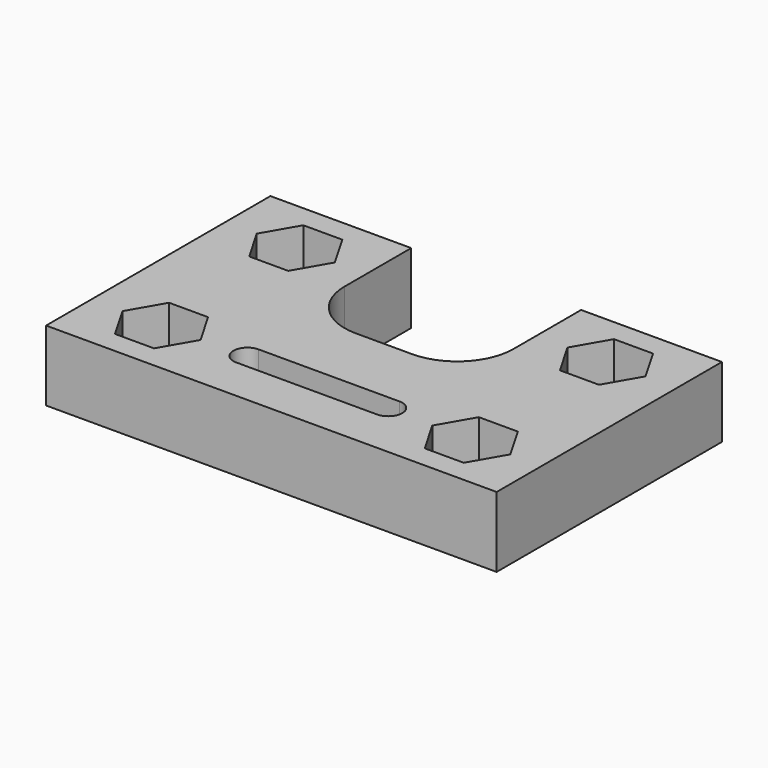
from build123d import *

# Parameters (mm, degrees)
F1_DEPTH = 25


with BuildPart() as f1:
    # F0 (on Top) → F1 (new body)
    with BuildSketch(Plane.XY):
        Polygon((56.190497, -42), (63.1187, -30), (56.190497, -18), (42.334091, -18), (35.405887, -30), (42.334091, -42), align=None)
        Polygon((56.190497, 42), (49.262294, 42), (42.334091, 42), (35.405887, 30), (42.334091, 18), (56.190497, 18), (63.1187, 30), align=None)
        Polygon((-53.809503, 41.583334), (-60.737706, 41.583334), (-67.665909, 41.583334), (-74.594113, 29.583334), (-67.665909, 17.583334), (-53.809503, 17.583334), (-46.8813, 29.583334), align=None)
        Polygon((-67.665909, -18), (-74.594113, -30), (-67.665909, -42), (-53.809503, -42), (-46.8813, -30), (-53.809503, -18), align=None)
        with BuildLine():
            Line((-85.737706, -30), (-85.737706, -50))
            Line((-85.737706, -50), (-30.737706, -50))
            Line((-30.737706, -50), (19.262294, -50))
            Line((19.262294, -50), (74.262294, -50))
            Line((74.262294, -50), (74.262294, -30))
            Line((74.262294, -30), (74.262294, 50))
            Line((74.262294, 50), (49.262294, 50))
            Line((49.262294, 50), (24.262294, 50))
            Line((24.262294, 50), (24.262294, 20))
            ThreePointArc((24.262294, 20), (18.40443, 5.857864), (4.262294, 0))
            Line((4.262294, 0), (-15.737706, 0))
            ThreePointArc((-15.737706, 0), (-29.879842, 5.857864), (-35.737706, 20))
            Line((-35.737706, 20), (-35.737706, 49.583334))
            Line((-35.737706, 49.583334), (-60.737706, 49.583334))
            Line((-60.737706, 49.583334), (-85.737706, 49.583334))
            Line((-85.737706, 49.583334), (-85.737706, -30))
        make_face()
        Polygon((-67.665909, -42), (-74.594113, -30), (-67.665909, -18), (-53.809503, -18), (-46.8813, -30), (-53.809503, -42), align=None, mode=Mode.SUBTRACT)
        with BuildLine():
            ThreePointArc((-30.737706, -34.368281), (-35.737706, -29.368281), (-30.737706, -24.368281))
            Line((-30.737706, -24.368281), (19.262294, -24.368281))
            ThreePointArc((19.262294, -24.368281), (24.262294, -29.368281), (19.262294, -34.368281))
            Line((19.262294, -34.368281), (-30.737706, -34.368281))
        make_face(mode=Mode.SUBTRACT)
        Polygon((56.190497, -18), (63.1187, -30), (56.190497, -42), (42.334091, -42), (35.405887, -30), (42.334091, -18), align=None, mode=Mode.SUBTRACT)
        Polygon((-67.665909, 41.583334), (-60.737706, 41.583334), (-53.809503, 41.583334), (-46.8813, 29.583334), (-53.809503, 17.583334), (-67.665909, 17.583334), (-74.594113, 29.583334), align=None, mode=Mode.SUBTRACT)
        Polygon((42.334091, 42), (49.262294, 42), (56.190497, 42), (63.1187, 30), (56.190497, 18), (42.334091, 18), (35.405887, 30), align=None, mode=Mode.SUBTRACT)
    extrude(amount=F1_DEPTH)


solid = f1.part
